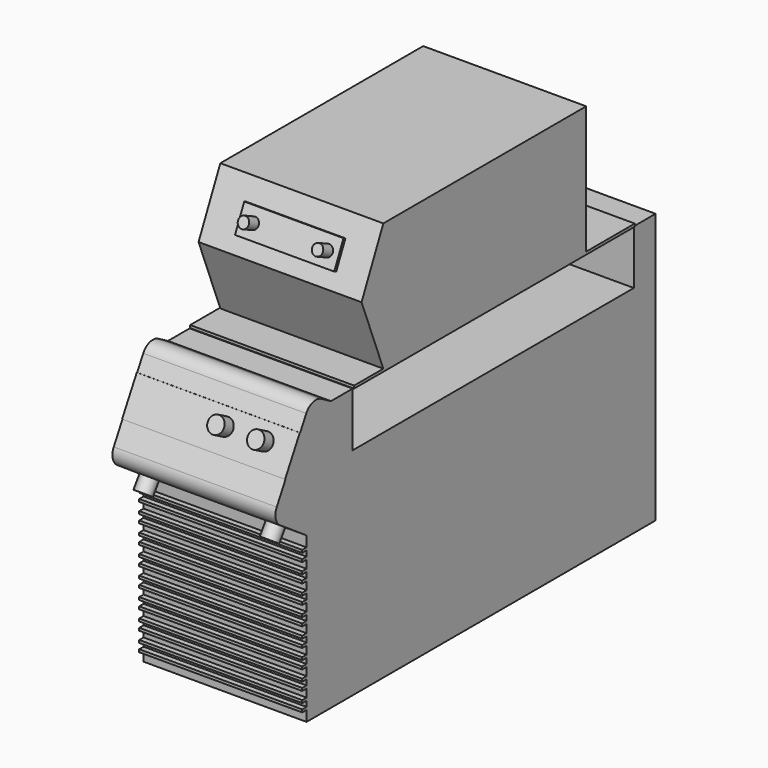
from build123d import *

# Parameters (mm, degrees)
F1_DEPTH  = 300
F2_R      = 25
F3_DEPTH  = 647
F5_DEPTH  = 300
F6_R      = 25
F7_R      = 25
F8_W      = 300
F8_H      = 70.4002976418
F8_R      = 15
F9_DEPTH  = 1
F10_DEPTH = 25
F11_DEPTH = 25
F12_R     = 15
F12_R_2   = 10
F13_DEPTH = 25
F14_W     = 300
F14_H     = 4.9098450691
F15_DEPTH = 10
F17_DEPTH = 5
F18_W     = 466.7353928089
F18_H     = 235.4385998249
F19_DEPTH = 300
F21_DEPTH = 300
F22_W     = 182.6146915555
F22_H     = 50.2008646727
F23_DEPTH = 5
F24_R     = 10
F25_DEPTH = 25


with BuildPart() as f1:
    # F0 (on Right) → F1 (new body)
    with BuildSketch(Plane.YZ):
        Polygon((-373.5, 248.5), (-373.5, -248.5), (373.5, -248.5), (373.5, 248.5), (323.5, 248.5), (323.5, 148.5), (-323.5, 148.5), (-323.5, 248.5), align=None)
    extrude(amount=F1_DEPTH)

    # F4 (on face) → F5 (join)
    with BuildSketch(Plane.YZ.offset(300)):
        Polygon((-373.5, -248.5), (-373.5, 248.5), (-417.9687320084, 273.9712044001), (-509.0158401817, 107.5635223985), (-429.4541000218, 53.7257350385), (-429.4541000218, -248.5), align=None)
    extrude(amount=-F5_DEPTH)

    # F6
    f6_edges = [f1.edges().sort_by_distance(p)[0] for p in [
        (150, -417.968732, 273.971204),
    ]]
    fillet(f6_edges, radius=F6_R)

    # F7
    f7_edges = [f1.edges().sort_by_distance(p)[0] for p in [
        (150, -509.01584, 107.563522),
    ]]
    fillet(f7_edges, radius=F7_R)

    # F14 (on face) → F15 (join)
    with BuildSketch(Plane.XZ.offset(429.4541000218)):
        with Locations((150, 31.8747041747)):
            Rectangle(F14_W, F14_H)
        with Locations((150, 16.8167771772)):
            Rectangle(F14_W, F14_H)
        with Locations((150, -2.8852845505)):
            Rectangle(F14_W, F14_H)
        with Locations((150, -17.943211548)):
            Rectangle(F14_W, F14_H)
        with Locations((150, -37.6452732757)):
            Rectangle(F14_W, F14_H)
        with Locations((150, -52.7032002732)):
            Rectangle(F14_W, F14_H)
        with Locations((150, -72.4052620009)):
            Rectangle(F14_W, F14_H)
        with Locations((150, -87.4631889984)):
            Rectangle(F14_W, F14_H)
        with Locations((150, -107.3110759631)):
            Rectangle(F14_W, F14_H)
        with Locations((150, -122.3690029606)):
            Rectangle(F14_W, F14_H)
        with Locations((150, -142.0710646883)):
            Rectangle(F14_W, F14_H)
        with Locations((150, -157.1289916858)):
            Rectangle(F14_W, F14_H)
        with Locations((150, -176.8310534135)):
            Rectangle(F14_W, F14_H)
        with Locations((150, -191.888980411)):
            Rectangle(F14_W, F14_H)
        with Locations((150, -211.5910421386)):
            Rectangle(F14_W, F14_H)
        with Locations((150, -226.6489691362)):
            Rectangle(F14_W, F14_H)
    extrude(amount=F15_DEPTH)


with BuildPart() as f3:
    # F2 (on face) → F3 (new body, through all)
    with BuildSketch(Plane.XZ.offset(-323.5)):
        with Locations((150, 213.5)):
            Circle(F2_R)
    extrude(amount=F3_DEPTH)


with BuildPart() as f9:
    # F8 (on face) → F9 (new body)
    with BuildSketch(Plane(origin=(0, -437.0381157891, 239.1179068509), x_dir=(1, 0, 0), z_dir=(0, -0.8772758982, 0.4799864564))):
        with Locations((150, -50.1969009638)):
            Rectangle(F8_W, F8_H)
        with Locations((173.5952753637, -44.1060066223)):
            Circle(F8_R, mode=Mode.SUBTRACT)
        with Locations((247.0025908139, -44.1060066223)):
            Circle(F8_R, mode=Mode.SUBTRACT)
    extrude(amount=F9_DEPTH)


with BuildPart() as f10:
    # F8 (on face) → F10 (new body)
    with BuildSketch(Plane(origin=(0, -437.0381157891, 239.1179068509), x_dir=(1, 0, 0), z_dir=(0, -0.8772758982, 0.4799864564))):
        with Locations((173.5952753637, -44.1060066223)):
            Circle(F8_R)
    extrude(amount=F10_DEPTH)


with BuildPart() as f11:
    # F8 (on face) → F11 (new body)
    with BuildSketch(Plane(origin=(0, -437.0381157891, 239.1179068509), x_dir=(1, 0, 0), z_dir=(0, -0.8772758982, 0.4799864564))):
        with Locations((247.0025908139, -44.1060066223)):
            Circle(F8_R)
    extrude(amount=F11_DEPTH)


with BuildPart() as f13:
    # F12 (on face) → F13 (new body)
    with BuildSketch(Plane(origin=(0, -109.9460351412, -162.4787776109), x_dir=(1, 0, 0), z_dir=(0, -0.560427984, -0.8282031603))):
        with Locations((34.7621776164, 422.4434431663)):
            Circle(F12_R)
        with Locations((34.7621776164, 422.4434431663)):
            Circle(F12_R_2, mode=Mode.SUBTRACT)
    extrude(amount=F13_DEPTH)


with BuildPart() as f13b:
    # F12 (on face) → F13, piece 2 (new body)
    with BuildSketch(Plane(origin=(0, -109.9460351412, -162.4787776109), x_dir=(1, 0, 0), z_dir=(0, -0.560427984, -0.8282031603))):
        with Locations((267.2439217567, 422.4434431663)):
            Circle(F12_R)
        with Locations((267.2439217567, 422.4434431663)):
            Circle(F12_R_2, mode=Mode.SUBTRACT)
    extrude(amount=F13_DEPTH)


with BuildPart() as f17:
    # F16 (on face) → F17 (new body)
    with BuildSketch(Plane.XY.offset(248.5)):
        Polygon((300, 323.5), (0, 323.5), (0, -322.2822844982), (301.719814539, -322.2822844982), (301.719814539, 323.5), align=None)
    extrude(amount=F17_DEPTH)

    # F18 (on face) → F19 (join)
    with BuildSketch(Plane.YZ.offset(301.719814539)):
        with Locations((-21.6684192419, 371.2192999125)):
            Rectangle(F18_W, F18_H)
    extrude(amount=-F19_DEPTH)

    # F20 (on face) → F21 (join)
    with BuildSketch(Plane.YZ.offset(301.719814539)):
        Polygon((-305.1252663136, 381.5310895443), (-255.0361156464, 253.5), (-255.0361156464, 488.9385998249), align=None)
    extrude(amount=-F21_DEPTH)


with BuildPart() as f23:
    # F22 (on face) → F23 (new body)
    with BuildSketch(Plane(origin=(0, -396.763258485, 185.0292831622), x_dir=(1, 0, 0), z_dir=(0, -0.9062941929, 0.4226474132))):
        with Locations((154.0248654783, 270.7376852632)):
            Rectangle(F22_W, F22_H)
    extrude(amount=F23_DEPTH)


with BuildPart() as f25:
    # F24 (on face) → F25 (new body)
    with BuildSketch(Plane(origin=(0, -401.2947294496, 187.1425202282), x_dir=(1, 0, 0), z_dir=(0, -0.9062941929, 0.4226474132))):
        with Locations((87.8758430481, 270.7376852632)):
            Circle(F24_R)
    extrude(amount=F25_DEPTH)


with BuildPart() as f25b:
    # F24 (on face) → F25, piece 2 (new body)
    with BuildSketch(Plane(origin=(0, -401.2947294496, 187.1425202282), x_dir=(1, 0, 0), z_dir=(0, -0.9062941929, 0.4226474132))):
        with Locations((224.2062836885, 270.7376852632)):
            Circle(F24_R)
    extrude(amount=F25_DEPTH)


solid = Compound([f1.part, f3.part, f9.part, f10.part, f11.part, f13.part, f13b.part, f17.part, f23.part, f25.part, f25b.part])
